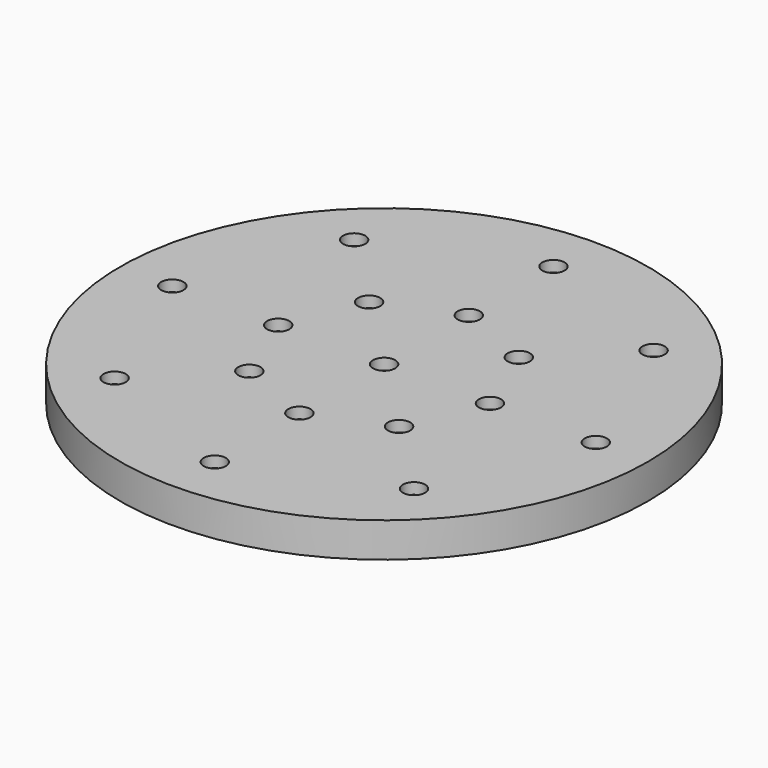
from build123d import *

# Parameters (mm, degrees)
F0_R           = 190
F1_DEPTH       = 25
F3_D           = 8
F3_CBORE_D     = 16
F3_CBORE_DEPTH = 8


with BuildPart() as f1:
    # F0 (on Top) → F1 (new body)
    with BuildSketch(Plane.XY):
        Circle(F0_R)
    extrude(amount=F1_DEPTH)

    # F3 (through all)
    with Locations(Plane.XY.offset(25)):
        with Locations((-152.4, 0), (-76.2, 0), (0, 0), (76.2, 0), (152.4, 0), (53.881537, -53.881537), (107.763073, -107.763073), (0, -152.4), (0, -76.2), (-53.881537, -53.881537), (-107.763073, -107.763073), (-53.881537, 53.881537), (53.881537, 53.881537), (0, 76.2), (107.763073, 107.763073), (0, 152.4), (-107.763073, 107.763073)):
            CounterBoreHole(F3_D / 2, F3_CBORE_D / 2, F3_CBORE_DEPTH)


solid = f1.part
